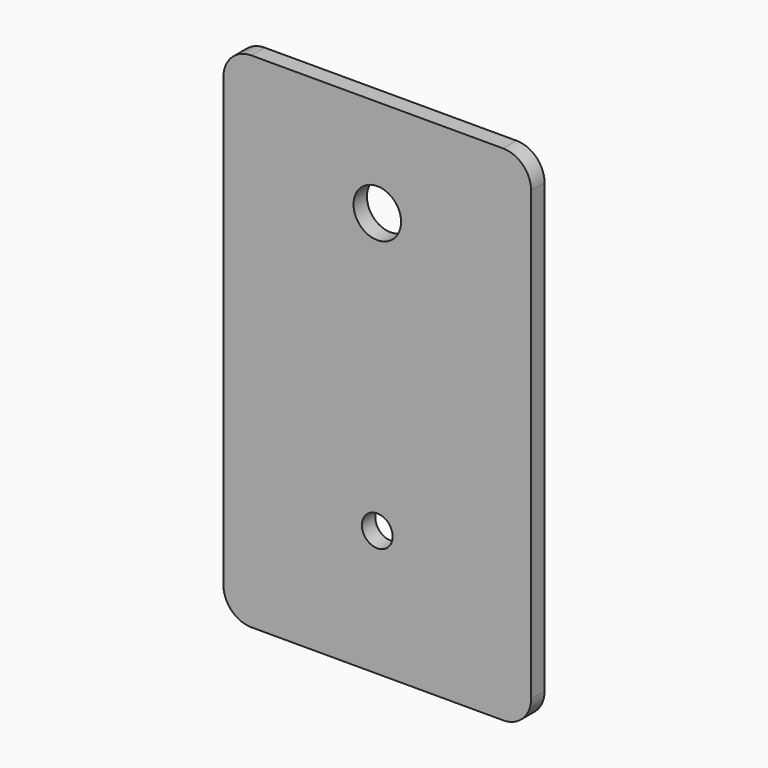
from build123d import *

# Parameters (mm, degrees)
F0_W     = 55
F0_H     = 90
F1_DEPTH = 3
F2_R     = 4.25
F3_DEPTH = 3
F4_R     = 5
F5_R     = 2.75
F6_DEPTH = 3


with BuildPart() as f1:
    # F0 (on Front) → F1 (new body)
    with BuildSketch(Plane.XZ):
        Rectangle(F0_W, F0_H)
    extrude(amount=F1_DEPTH)

    # F2 (on face) → F3 (cut, through all)
    with BuildSketch(Plane.XZ.offset(3)):
        with Locations((0, 27.5)):
            Circle(F2_R)
    extrude(amount=-F3_DEPTH, mode=Mode.SUBTRACT)

    # F4
    f4_edges = [f1.edges().sort_by_distance(p)[0] for p in [
        (-27.5, -1.5, 45),
        (27.5, -1.5, 45),
        (27.5, -1.5, -45),
        (-27.5, -1.5, -45),
    ]]
    fillet(f4_edges, radius=F4_R)

    # F5 (on face) → F6 (cut, through all)
    with BuildSketch(Plane.XZ.offset(3)):
        with Locations((0, -22.5)):
            Circle(F5_R)
    extrude(amount=-F6_DEPTH, mode=Mode.SUBTRACT)


solid = f1.part
